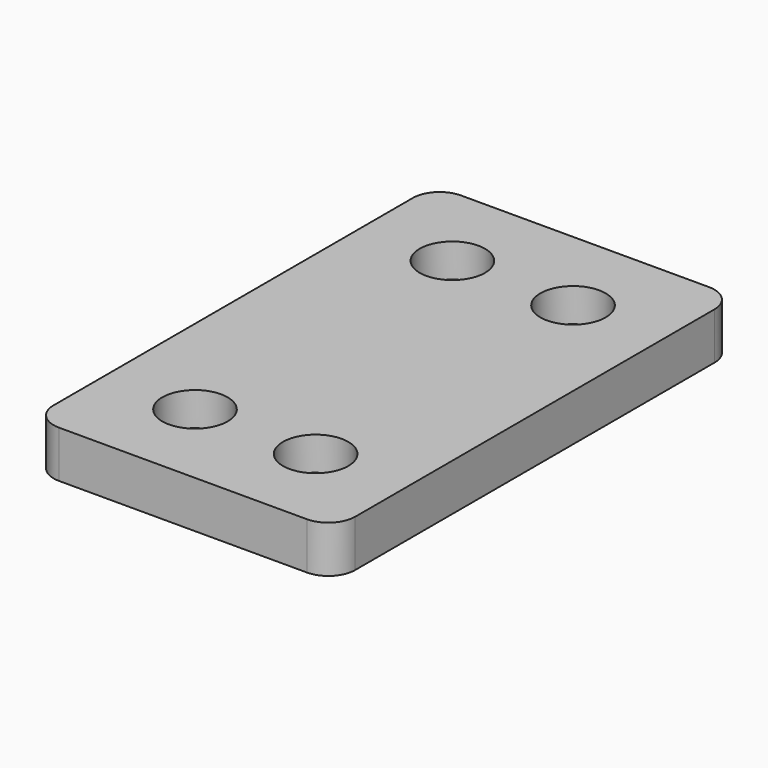
from build123d import *

# Parameters (mm, degrees)
F0_W           = 45
F0_H           = 75
F1_DEPTH       = 7
F3_D           = 5.5
F3_CBORE_D     = 9.75
F3_CBORE_DEPTH = 5
F4_R           = 4


with BuildPart() as f1:
    # F0 (on Top) → F1 (new body)
    with BuildSketch(Plane.XY):
        Rectangle(F0_W, F0_H)
    extrude(amount=F1_DEPTH)

    # F3 (through all)
    with Locations(Plane.XY.offset(7)):
        with Locations((-9, -24), (9, -24), (9, 24), (-9, 24)):
            CounterBoreHole(F3_D / 2, F3_CBORE_D / 2, F3_CBORE_DEPTH)

    # F4
    f4_edges = [f1.edges().sort_by_distance(p)[0] for p in [
        (22.5, -37.5, 3.5),
        (-22.5, -37.5, 3.5),
        (22.5, 37.5, 3.5),
        (-22.5, 37.5, 3.5),
    ]]
    fillet(f4_edges, radius=F4_R)


solid = f1.part
